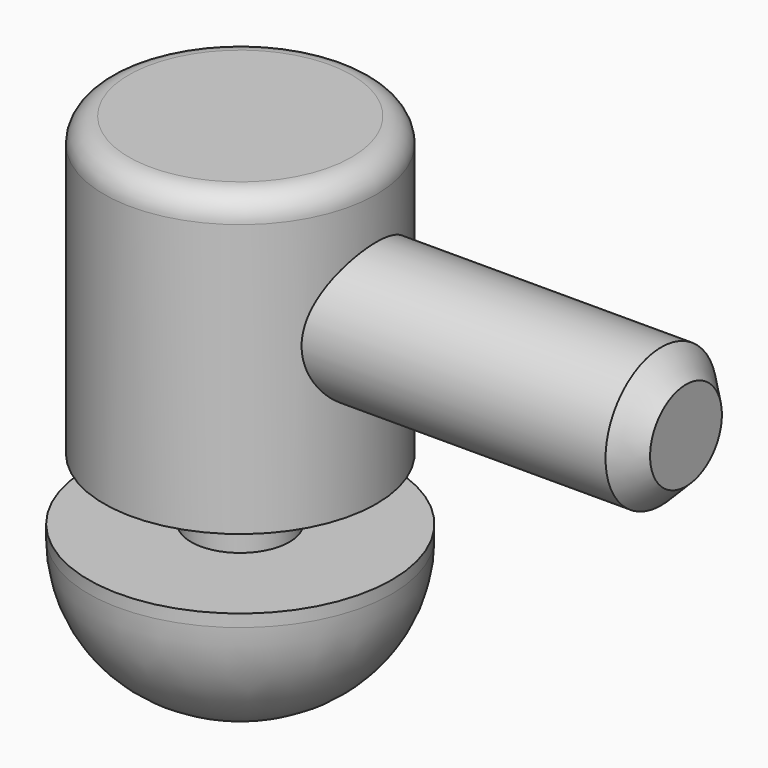
from build123d import *

# Parameters (mm, degrees)
F0_R      = 5.5
F1_DEPTH  = 12
F2_R      = 1
F3_R      = 1.98573
F4_DEPTH  = 5
F6_R      = 6.124075
F7_DEPTH  = 6
F8_R      = 5.5
F7_FACE_R = 0.624075
F9_DEPTH  = 4
F10_R     = 2.813171
F11_DEPTH = 18
F12_SIZE  = 1


with BuildPart() as f1:
    # F0 (on Top) → F1 (new body)
    with BuildSketch(Plane.XY):
        Circle(F0_R)
    extrude(amount=F1_DEPTH)

    # F2
    f2_edges = [f1.edges().sort_by_distance(p)[0] for p in [
        (-5.5, 0, 12),
    ]]
    fillet(f2_edges, radius=F2_R)

    # F3 (on face) → F4 (join)
    with BuildSketch(Plane(origin=(0, 0, 0), x_dir=(1, 0, 0), z_dir=(0, 0, -1))):
        Circle(F3_R)
    extrude(amount=F4_DEPTH)

    # F6 (on offset) → F7 (join)
    with BuildSketch(Plane.XY.offset(-2.5)):
        Circle(F6_R)
    extrude(amount=-F7_DEPTH)

    # F8
    f8_edges = [f1.edges().sort_by_distance(p)[0] for p in [
        (-6.124075, 0, -8.5),
    ]]
    fillet(f8_edges, radius=F8_R)

    # F7_face (on face) → F9 (cut)
    with BuildSketch(Plane(origin=(0, 0, -8.5), x_dir=(1, 0, 0), z_dir=(0, 0, -1))):
        Circle(F7_FACE_R)
    extrude(amount=-F9_DEPTH, mode=Mode.SUBTRACT)

    # F10 (on Right) → F11 (join)
    with BuildSketch(Plane.YZ):
        with Locations((0, 6.498161)):
            Circle(F10_R)
    extrude(amount=F11_DEPTH)

    # F12
    f12_edges = [f1.edges().sort_by_distance(p)[0] for p in [
        (18, -2.813171, 6.498161),
    ]]
    chamfer(f12_edges, length=F12_SIZE)


solid = f1.part
